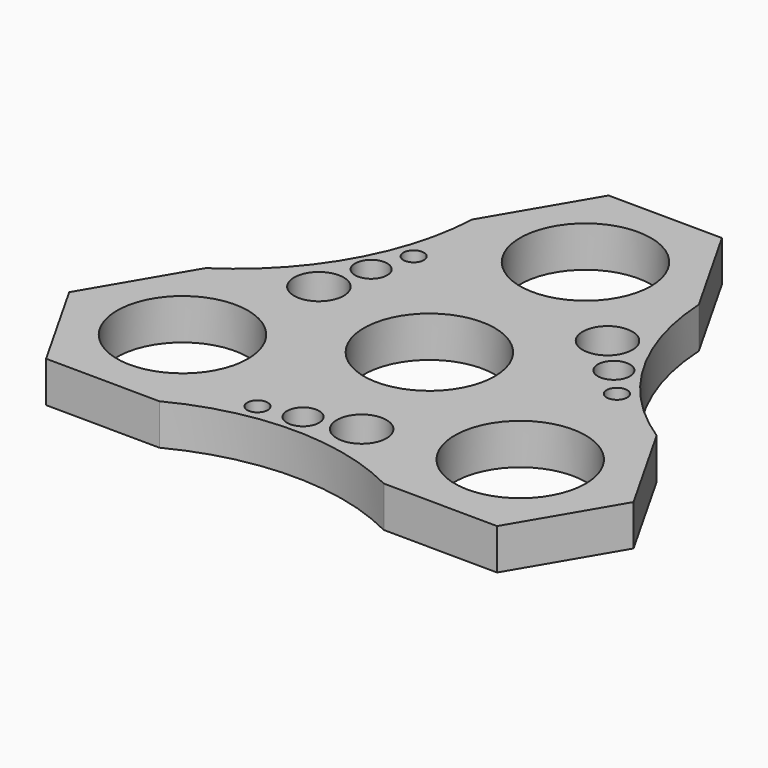
from build123d import *

# Parameters (mm, degrees)
F0_R     = 11.2
F0_R_2   = 1.75
F0_R_3   = 2.75
F0_R_4   = 4.25
F1_DEPTH = 7


with BuildPart() as f1:
    # F0 (on Top) → F1 (new body)
    with BuildSketch(Plane.XY):
        Polygon((19.521375, 33.261315), (9.893419, 50.243954), (-9.627956, 50.39722), (-19.521375, 33.567845), (-9.893419, 16.585206), (9.627956, 16.43194), align=None)
        with Locations((0, 33.41458)):
            Circle(F0_R, mode=Mode.SUBTRACT)
        with BuildLine():
            ThreePointArc((38.793711, 0.149422), (25.162096, 14.379871), (19.521375, 33.261315))
            Line((19.521375, 33.261315), (9.627956, 16.43194))
            ThreePointArc((9.627956, 16.43194), (9.917718, 5.657179), (19.272335, 0.302687))
            Line((19.272335, 0.302687), (38.793711, 0.149422))
        make_face()
        with Locations((27.107068, 6.250099)):
            Circle(F0_R_2, mode=Mode.SUBTRACT)
        with Locations((22.546168, 11.302348)):
            Circle(F0_R_3, mode=Mode.SUBTRACT)
        with Locations((16.533859, 17.45883)):
            Circle(F0_R_4, mode=Mode.SUBTRACT)
        Polygon((48.421667, -16.833218), (38.793711, 0.149422), (19.272335, 0.302687), (9.378916, -16.526687), (19.006872, -33.509327), (38.528247, -33.662592), align=None)
        with Locations((28.900291, -16.679952)):
            Circle(F0_R, mode=Mode.SUBTRACT)
        with BuildLine():
            Line((-9.893419, 16.585206), (-19.521375, 33.567845))
            ThreePointArc((-19.521375, 33.567845), (-25.029499, 14.647296), (-38.560948, 0.321567))
            Line((-38.560948, 0.321567), (-19.039573, 0.168302))
            ThreePointArc((-19.039573, 0.168302), (-9.853236, 5.806623), (-9.893419, 16.585206))
        make_face()
        with Locations((-23.38672, 5.589327)):
            Circle(F0_R_4, mode=Mode.SUBTRACT)
        with Locations((-21.061205, 13.87438)):
            Circle(F0_R_3, mode=Mode.SUBTRACT)
        with Locations((-18.966278, 20.35036)):
            Circle(F0_R_2, mode=Mode.SUBTRACT)
        Polygon((-19.039573, 0.168302), (-38.560948, 0.321567), (-48.454367, -16.507807), (-38.826411, -33.490447), (-19.305036, -33.643712), (-9.411617, -16.814338), align=None)
        with Locations((-28.932992, -16.661073)):
            Circle(F0_R, mode=Mode.SUBTRACT)
        with BuildLine():
            Line((19.006872, -33.509327), (9.378916, -16.526687))
            ThreePointArc((9.378916, -16.526687), (-0.097182, -11.390247), (-9.411617, -16.814338))
            Line((-9.411617, -16.814338), (-19.305036, -33.643712))
            ThreePointArc((-19.305036, -33.643712), (-0.165298, -28.953612), (19.006872, -33.509327))
        make_face()
        with Locations((-8.14079, -26.600459)):
            Circle(F0_R_2, mode=Mode.SUBTRACT)
        with Locations((-1.484963, -25.176729)):
            Circle(F0_R_3, mode=Mode.SUBTRACT)
        with Locations((6.852861, -23.048157)):
            Circle(F0_R_4, mode=Mode.SUBTRACT)
        with BuildLine():
            ThreePointArc((19.272335, 0.302687), (9.917718, 5.657179), (9.627956, 16.43194))
            Line((9.627956, 16.43194), (-9.893419, 16.585206))
            ThreePointArc((-9.893419, 16.585206), (-9.853236, 5.806623), (-19.039573, 0.168302))
            Line((-19.039573, 0.168302), (-9.411617, -16.814338))
            ThreePointArc((-9.411617, -16.814338), (-0.097182, -11.390247), (9.378916, -16.526687))
            Line((9.378916, -16.526687), (19.272335, 0.302687))
        make_face()
        Circle(F0_R, mode=Mode.SUBTRACT)
    extrude(amount=F1_DEPTH)


solid = f1.part
